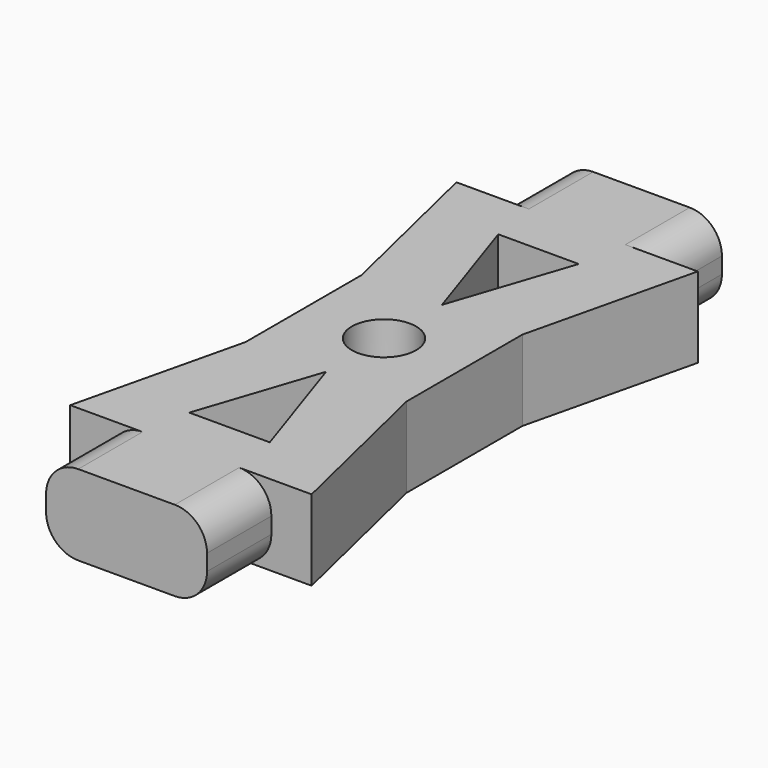
from build123d import *

# Parameters (mm, degrees)
F0_R     = 4
F0_W     = 20
F0_H     = 10
F1_DEPTH = 10
F2_R     = 4


with BuildPart() as f1:
    # F0 (on Top) → F1 (new body)
    with BuildSketch(Plane.XY):
        Polygon((10, 9), (15, 30), (10, 30), (-10, 30), (-15, 30), (-10, 9), (-10, 0), (-10, -9), (-15, -30), (-10, -30), (10, -30), (15, -30), (10, -9), (10, 0), align=None)
        Polygon((-5, -24), (0, -9), (5, -24), align=None, mode=Mode.SUBTRACT)
        Circle(F0_R, mode=Mode.SUBTRACT)
        Polygon((5, 24), (0, 9), (-5, 24), align=None, mode=Mode.SUBTRACT)
        with Locations((0, 35)):
            Rectangle(F0_W, F0_H)
        with Locations((0, -35)):
            Rectangle(F0_W, F0_H)
    extrude(amount=F1_DEPTH)

    # F2
    f2_edges = [f1.edges().sort_by_distance(p)[0] for p in [
        (-10, -35, 10),
        (10, -35, 10),
        (-10, -35, 0),
        (10, -35, 0),
        (10, 35, 0),
        (-10, 35, 0),
        (-10, 35, 10),
        (10, 35, 10),
    ]]
    fillet(f2_edges, radius=F2_R)


solid = f1.part
